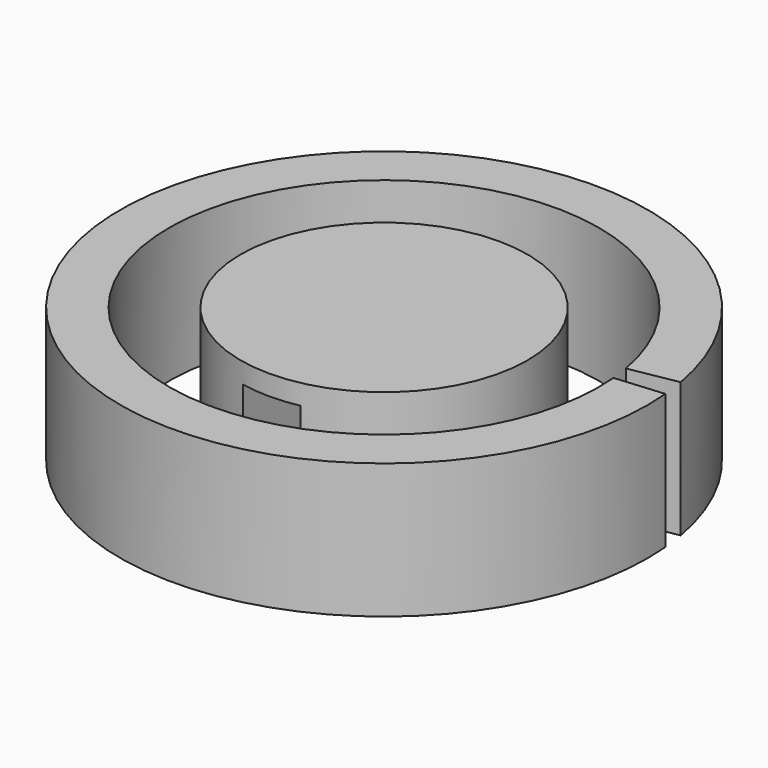
from build123d import *

# Parameters (mm, degrees)
BOX022_W                    = 2
BOX022_H                    = 12
BOX022_DEPTH                = 4
CYLINDER134_R               = 5
CYLINDER134_DEPTH           = 4.7
CYLINDER135_R               = 7.5
CYLINDER135_DEPTH           = 4.7
CYLINDER136_W               = 9.2
CYLINDER136_H               = 4.7
CYLINDER136_ANGLE           = 355
CYLINDER136_PLACEMENT_ANGLE = 10


with BuildPart() as cube022:
    # Box022 → Box022 (new body)
    with BuildSketch(Plane(origin=(-1, -6, -19), x_dir=(1, 0, 0), z_dir=(0, 0, 1))):
        with Locations((1, 6)):
            Rectangle(BOX022_W, BOX022_H)
    extrude(amount=BOX022_DEPTH)


with BuildPart() as hub_rear_cap_support:
    # Cylinder134 → Cylinder134 (new body)
    with BuildSketch(Plane.XY.offset(-19)):
        Circle(CYLINDER134_R)
    extrude(amount=CYLINDER134_DEPTH)


with BuildPart() as hub_rear_cap_support001:
    # Cylinder135 → Cylinder135 (new body)
    with BuildSketch(Plane.XY.offset(-19)):
        Circle(CYLINDER135_R)
    extrude(amount=CYLINDER135_DEPTH)


with BuildPart() as cut085:
    # Cylinder136 → Cylinder136 (revolve)
    with BuildSketch(Plane.XZ):
        with Locations((4.6, 2.35)):
            Rectangle(CYLINDER136_W, CYLINDER136_H)
    revolve(axis=Axis((0, 0, 0), (0, 0, 1)), revolution_arc=CYLINDER136_ANGLE)


with BuildPart() as cut085_1:
    # Cylinder136 placement: moved
    add(cut085.part.moved(Location((0, 0, -19))).rotate(Axis((0, 0, -19), (0, 0, 1)), CYLINDER136_PLACEMENT_ANGLE))

    # Cut084: cut hub-rear-cap-support001
    add(hub_rear_cap_support001.part, mode=Mode.SUBTRACT)

    # Fusion084: union hub-rear-cap-support_
    add(hub_rear_cap_support.part)

    # Cut085: cut Cube022
    add(cube022.part, mode=Mode.SUBTRACT)


solid = cut085_1.part
